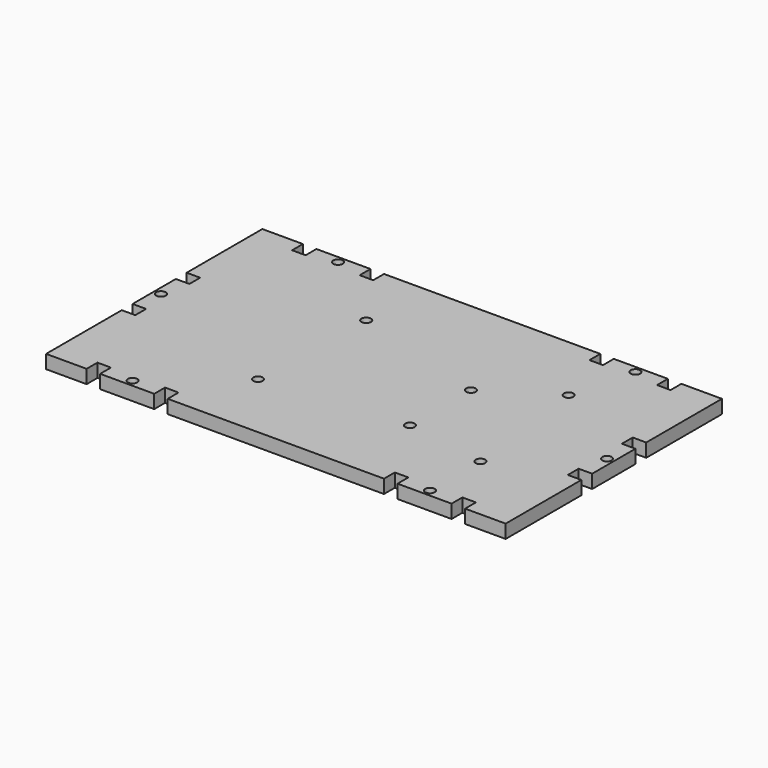
from build123d import *

# Parameters (mm, degrees)
F1_W     = 170
F1_H     = 100
F1_R     = 1.75
F2_DEPTH = 5
F3_W     = 5
F3_H     = 5
F3_R     = 1.75
F4_DEPTH = 5


with BuildPart() as f2:
    # F1 (on Top) → F2 (new body)
    with BuildSketch(Plane.XY):
        with Locations((41.5, 26.75)):
            Rectangle(F1_W, F1_H)
        with Locations((14.2, 2.6)):
            Circle(F1_R, mode=Mode.SUBTRACT)
        with Locations((66.5, 7.5)):
            Circle(F1_R, mode=Mode.SUBTRACT)
        with Locations((96.5, 2.6)):
            Circle(F1_R, mode=Mode.SUBTRACT)
        with Locations((15.6, 50.9)):
            Circle(F1_R, mode=Mode.SUBTRACT)
        with Locations((66.5, 35.7)):
            Circle(F1_R, mode=Mode.SUBTRACT)
        with Locations((90.5, 50.9)):
            Circle(F1_R, mode=Mode.SUBTRACT)
    extrude(amount=F2_DEPTH)

    # F3 (on face) → F4 (cut, through all)
    with BuildSketch(Plane.XY.offset(5)):
        with Locations((-26, -20.75)):
            Rectangle(F3_W, F3_H)
        with Locations((-1, -20.75)):
            Rectangle(F3_W, F3_H)
        with Locations((-13.5, -20.75)):
            Circle(F3_R)
        with Locations((84, -20.75)):
            Rectangle(F3_W, F3_H)
        with Locations((96.5, -20.75)):
            Circle(F3_R)
        with Locations((109, -20.75)):
            Rectangle(F3_W, F3_H)
        with Locations((109, 74.25)):
            Rectangle(F3_W, F3_H)
        with Locations((84, 74.25)):
            Rectangle(F3_W, F3_H)
        with Locations((-26, 74.25)):
            Rectangle(F3_W, F3_H)
        with Locations((-13.5, 74.25)):
            Circle(F3_R)
        with Locations((-1, 74.25)):
            Rectangle(F3_W, F3_H)
        with Locations((96.5, 74.25)):
            Circle(F3_R)
        with Locations((-41, 39.25)):
            Rectangle(F3_W, F3_H)
        with Locations((-41, 14.25)):
            Rectangle(F3_W, F3_H)
        with Locations((-41, 26.75)):
            Circle(F3_R)
        with Locations((124, 39.25)):
            Rectangle(F3_W, F3_H)
        with Locations((124, 14.25)):
            Rectangle(F3_W, F3_H)
        with Locations((124, 26.75)):
            Circle(F3_R)
    extrude(amount=-F4_DEPTH, mode=Mode.SUBTRACT)


solid = f2.part
